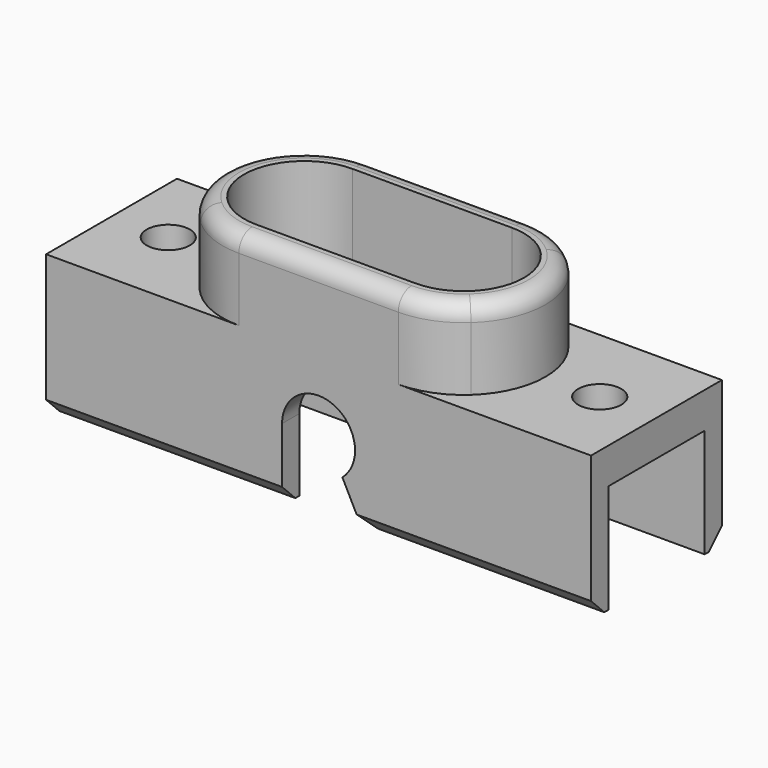
from build123d import *

# Parameters (mm, degrees)
F1_DEPTH = 6.1341
F2_DEPTH = 11.0744
F0_R     = 1.651
F3_DEPTH = 2.7432
F5_DEPTH = 12.5232
F6_SIZE  = 1.27
F7_R     = 1.27


with BuildPart() as f1:
    # F0 (on Top) → F1 (new body)
    with BuildSketch(Plane.XY):
        with BuildLine():
            Line((14.75105, 1.651), (10.514501, 1.651))
            ThreePointArc((10.514501, 1.651), (12.477608, 0.427333), (14.75105, 0))
            Line((14.75105, 0), (20.8534, 0))
            Line((20.8534, 0), (26.95575, 0))
            ThreePointArc((26.95575, 0), (29.229192, 0.427333), (31.192299, 1.651))
            Line((31.192299, 1.651), (26.95575, 1.651))
            Line((26.95575, 1.651), (20.8534, 1.651))
            Line((20.8534, 1.651), (14.75105, 1.651))
        make_face()
        with BuildLine():
            Line((14.75105, 10.8712), (10.514501, 10.8712))
            ThreePointArc((10.514501, 10.8712), (8.48995, 6.2611), (10.514501, 1.651))
            Line((10.514501, 1.651), (14.75105, 1.651))
            ThreePointArc((14.75105, 1.651), (10.14095, 6.2611), (14.75105, 10.8712))
        make_face()
        with BuildLine():
            Line((20.8534, 12.5222), (14.75105, 12.5222))
            ThreePointArc((14.75105, 12.5222), (12.477608, 12.094867), (10.514501, 10.8712))
            Line((10.514501, 10.8712), (14.75105, 10.8712))
            Line((14.75105, 10.8712), (20.8534, 10.8712))
            Line((20.8534, 10.8712), (26.95575, 10.8712))
            Line((26.95575, 10.8712), (31.192299, 10.8712))
            ThreePointArc((31.192299, 10.8712), (29.229192, 12.094867), (26.95575, 12.5222))
            Line((26.95575, 12.5222), (20.8534, 12.5222))
        make_face()
        with BuildLine():
            ThreePointArc((31.192299, 1.651), (33.21685, 6.2611), (31.192299, 10.8712))
            Line((31.192299, 10.8712), (26.95575, 10.8712))
            ThreePointArc((26.95575, 10.8712), (31.56585, 6.2611), (26.95575, 1.651))
            Line((26.95575, 1.651), (31.192299, 1.651))
        make_face()
    extrude(amount=F1_DEPTH)

    # F0 (on Top) → F2 (join)
    with BuildSketch(Plane.XY):
        with BuildLine():
            Line((10.514501, 1.651), (0, 1.651))
            Line((0, 1.651), (0, 0))
            Line((0, 0), (14.75105, 0))
            ThreePointArc((14.75105, 0), (12.477608, 0.427333), (10.514501, 1.651))
        make_face()
        with BuildLine():
            Line((14.75105, 1.651), (10.514501, 1.651))
            ThreePointArc((10.514501, 1.651), (12.477608, 0.427333), (14.75105, 0))
            Line((14.75105, 0), (20.8534, 0))
            Line((20.8534, 0), (26.95575, 0))
            ThreePointArc((26.95575, 0), (29.229192, 0.427333), (31.192299, 1.651))
            Line((31.192299, 1.651), (26.95575, 1.651))
            Line((26.95575, 1.651), (20.8534, 1.651))
            Line((20.8534, 1.651), (14.75105, 1.651))
        make_face()
        with BuildLine():
            Line((41.7068, 1.651), (31.192299, 1.651))
            ThreePointArc((31.192299, 1.651), (29.229192, 0.427333), (26.95575, 0))
            Line((26.95575, 0), (41.7068, 0))
            Line((41.7068, 0), (41.7068, 1.651))
        make_face()
        with BuildLine():
            Line((14.75105, 12.5222), (0, 12.5222))
            Line((0, 12.5222), (0, 10.8712))
            Line((0, 10.8712), (10.514501, 10.8712))
            ThreePointArc((10.514501, 10.8712), (12.477608, 12.094867), (14.75105, 12.5222))
        make_face()
        with BuildLine():
            Line((20.8534, 12.5222), (14.75105, 12.5222))
            ThreePointArc((14.75105, 12.5222), (12.477608, 12.094867), (10.514501, 10.8712))
            Line((10.514501, 10.8712), (14.75105, 10.8712))
            Line((14.75105, 10.8712), (20.8534, 10.8712))
            Line((20.8534, 10.8712), (26.95575, 10.8712))
            Line((26.95575, 10.8712), (31.192299, 10.8712))
            ThreePointArc((31.192299, 10.8712), (29.229192, 12.094867), (26.95575, 12.5222))
            Line((26.95575, 12.5222), (20.8534, 12.5222))
        make_face()
        with BuildLine():
            Line((41.7068, 12.5222), (26.95575, 12.5222))
            ThreePointArc((26.95575, 12.5222), (29.229192, 12.094867), (31.192299, 10.8712))
            Line((31.192299, 10.8712), (41.7068, 10.8712))
            Line((41.7068, 10.8712), (41.7068, 12.5222))
        make_face()
    extrude(amount=-F2_DEPTH)

    # F0 (on Top) → F3 (join)
    with BuildSketch(Plane.XY):
        with BuildLine():
            Line((14.75105, 10.8712), (10.514501, 10.8712))
            ThreePointArc((10.514501, 10.8712), (8.48995, 6.2611), (10.514501, 1.651))
            Line((10.514501, 1.651), (14.75105, 1.651))
            ThreePointArc((14.75105, 1.651), (10.14095, 6.2611), (14.75105, 10.8712))
        make_face()
        with BuildLine():
            Line((10.514501, 10.8712), (0, 10.8712))
            Line((0, 10.8712), (0, 1.651))
            Line((0, 1.651), (10.514501, 1.651))
            ThreePointArc((10.514501, 1.651), (8.48995, 6.2611), (10.514501, 10.8712))
        make_face()
        with Locations((4.3434, 6.2611)):
            Circle(F0_R, mode=Mode.SUBTRACT)
        with BuildLine():
            ThreePointArc((31.192299, 1.651), (33.21685, 6.2611), (31.192299, 10.8712))
            Line((31.192299, 10.8712), (26.95575, 10.8712))
            ThreePointArc((26.95575, 10.8712), (31.56585, 6.2611), (26.95575, 1.651))
            Line((26.95575, 1.651), (31.192299, 1.651))
        make_face()
        with BuildLine():
            Line((41.7068, 10.8712), (31.192299, 10.8712))
            ThreePointArc((31.192299, 10.8712), (33.21685, 6.2611), (31.192299, 1.651))
            Line((31.192299, 1.651), (41.7068, 1.651))
            Line((41.7068, 1.651), (41.7068, 10.8712))
        make_face()
        with Locations((37.3634, 6.2611)):
            Circle(F0_R, mode=Mode.SUBTRACT)
    extrude(amount=-F3_DEPTH)

    # F4 (on Front) → F5 (cut, through all)
    with BuildSketch(Plane.XZ):
        with BuildLine():
            ThreePointArc((23.6474, -5.5372), (22.829056, -3.561544), (20.8534, -2.7432))
            ThreePointArc((20.8534, -2.7432), (18.877744, -3.561544), (18.0594, -5.5372))
            Line((18.0594, -5.5372), (22.677582, -7.653517))
            ThreePointArc((22.677582, -7.653517), (23.3934, -6.701174), (23.6474, -5.5372))
        make_face()
        with BuildLine():
            Line((22.677582, -7.653517), (18.0594, -5.5372))
            ThreePointArc((18.0594, -5.5372), (19.689426, -8.0772), (22.677582, -7.653517))
        make_face()
        with BuildLine():
            Line((18.0594, -5.5372), (18.0594, -11.0744))
            Line((18.0594, -11.0744), (24.4094, -11.0744))
            Line((24.4094, -11.0744), (22.677582, -7.653517))
            ThreePointArc((22.677582, -7.653517), (19.689426, -8.0772), (18.0594, -5.5372))
        make_face()
    extrude(amount=-F5_DEPTH, mode=Mode.SUBTRACT)

    # F6
    f6_edges = [f1.edges().sort_by_distance(p)[0] for p in [
        (33.0581, 0, -11.0744),
        (9.0297, 0, -11.0744),
        (33.0581, 12.5222, -11.0744),
        (9.0297, 12.5222, -11.0744),
    ]]
    chamfer(f6_edges, length=F6_SIZE)

    # F7
    f7_edges = [f1.edges().sort_by_distance(p)[0] for p in [
        (33.21685, 6.2611, 6.1341),
        (20.8534, 12.5222, 6.1341),
    ]]
    fillet(f7_edges, radius=F7_R)


solid = f1.part
